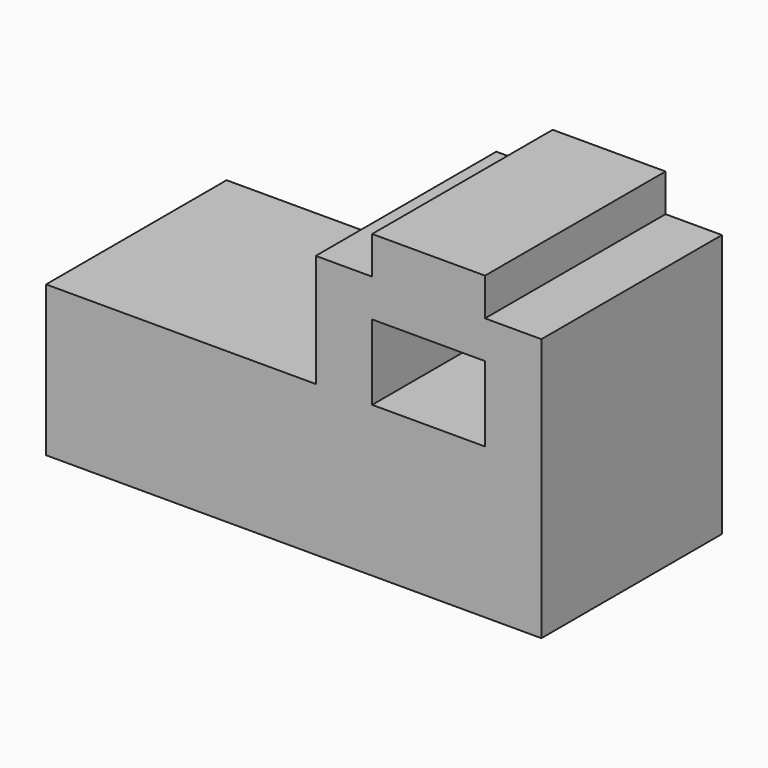
from build123d import *

# Parameters (mm, degrees)
F1_DEPTH = 1219.2
F2_W     = 304.8
F2_H     = 203.2
F3_DEPTH = 1219.2
F4_W     = 304.8
F4_H     = 203.2
F5_DEPTH = 1219.201
F7_W     = 609.6
F7_H     = 406.4
F8_DEPTH = 1219.201


with BuildPart() as f1:
    # F0 (on Front) → F1 (new body)
    with BuildSketch(Plane.XZ):
        Polygon((0, 830.291607), (0, 17.491607), (2676.393341, 17.491607), (2676.393341, 1643.091607), (1457.193341, 1643.091607), (1457.193341, 830.291607), align=None)
    extrude(amount=F1_DEPTH)

    # F2 (on face) → F3 (cut, through all)
    with BuildSketch(Plane.XZ.offset(1219.2)):
        with Locations((1609.593341, 1541.491607)):
            Rectangle(F2_W, F2_H)
    extrude(amount=-F3_DEPTH, mode=Mode.SUBTRACT)

    # F4 (on face) → F5 (cut, through all)
    with BuildSketch(Plane.XZ.offset(1219.2)):
        with Locations((2523.993341, 1541.491607)):
            Rectangle(F4_W, F4_H)
    extrude(amount=-F5_DEPTH, mode=Mode.SUBTRACT)

    # F7 (on face) → F8 (cut, through all)
    with BuildSketch(Plane.XZ.offset(1219.2)):
        with Locations((2066.793341, 1033.491607)):
            Rectangle(F7_W, F7_H)
    extrude(amount=-F8_DEPTH, mode=Mode.SUBTRACT)


solid = f1.part
